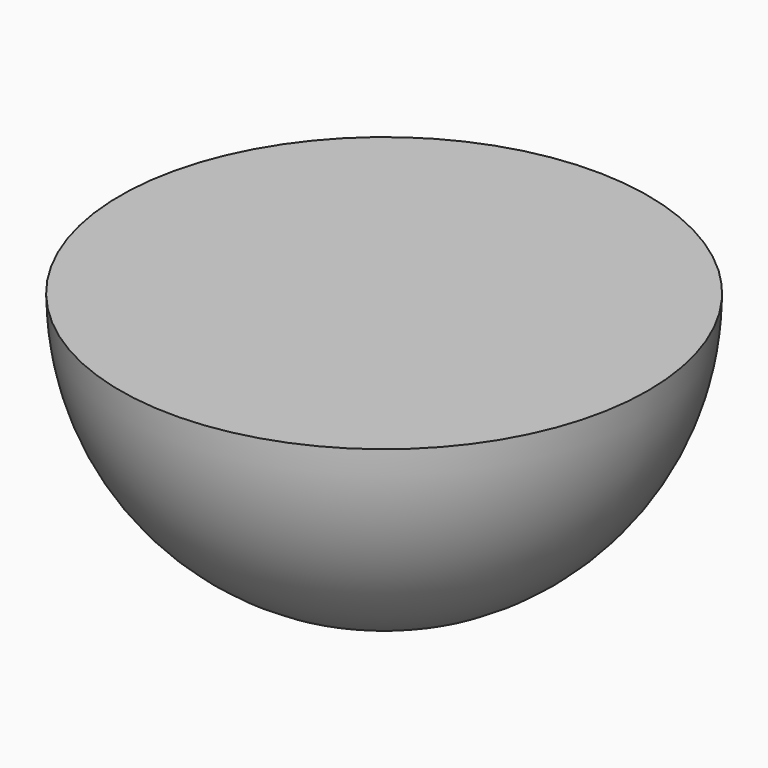
from build123d import *

# Parameters (mm, degrees)
F2_W     = 33.739738
F2_H     = 14.980557
F3_DEPTH = 12.7


with BuildPart() as f1:
    # F0 (on Front) → F1 (revolve)
    with BuildSketch(Plane.XZ):
        with BuildLine():
            Line((0, 12.7), (0, -12.7))
            ThreePointArc((0, -12.7), (12.7, 0), (0, 12.7))
        make_face()
    revolve(axis=Axis((0, 0, 0), (0, 0, 1)))

    # F2 (on Front) → F3 (cut, symmetric)
    with BuildSketch(Plane.XZ):
        with Locations((0.748722, 7.490278)):
            Rectangle(F2_W, F2_H)
    extrude(amount=F3_DEPTH, both=True, mode=Mode.SUBTRACT)


solid = f1.part
